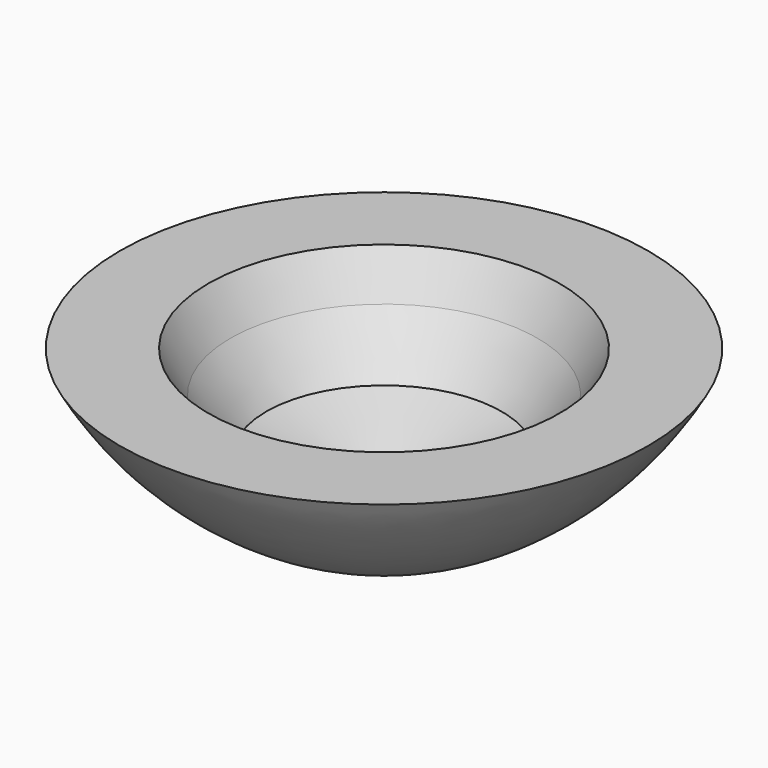
from build123d import *


with BuildPart() as f1:
    # F0 (on Front) → F1 (revolve)
    with BuildSketch(Plane.XZ):
        with BuildLine():
            Line((-91.18931, 56.301583), (-116.127369, 56.301583))
            ThreePointArc((-116.127369, 56.301583), (-84.86195, 22.824596), (-41.624669, 7.699363))
            Line((-41.624669, 7.699363), (-41.624669, 17.323565))
            Line((-41.624669, 17.323565), (-74.828163, 29.835027))
            Line((-74.828163, 29.835027), (-84.933579, 44.752538))
            Line((-84.933579, 44.752538), (-91.18931, 56.301583))
        make_face()
    revolve(axis=Axis((-41.624669, 0, 12.511464), (0, 0, 1)))


solid = f1.part
